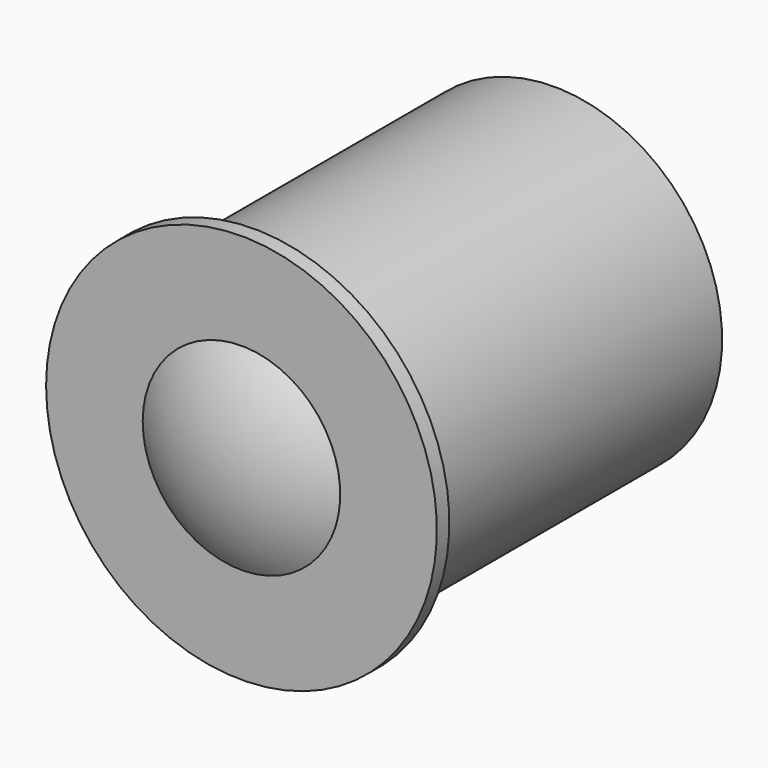
from build123d import *


with BuildPart() as f1:
    # F0 (on Top) → F1 (revolve)
    with BuildSketch(Plane.XY):
        Polygon((-12.63634, 0), (0, 0), (0, 50), (-21.5, 50), (-21.5, 2), (-25, 2), (-25, 0), align=None)
        with BuildLine():
            Line((0, -3.81), (0, 0))
            Line((0, 0), (-12.63634, 0))
            ThreePointArc((-12.63634, 0), (-6.599114, -2.836784), (0, -3.81))
        make_face()
    revolve(axis=Axis((0, 25, 0), (0, -1, 0)))


solid = f1.part
